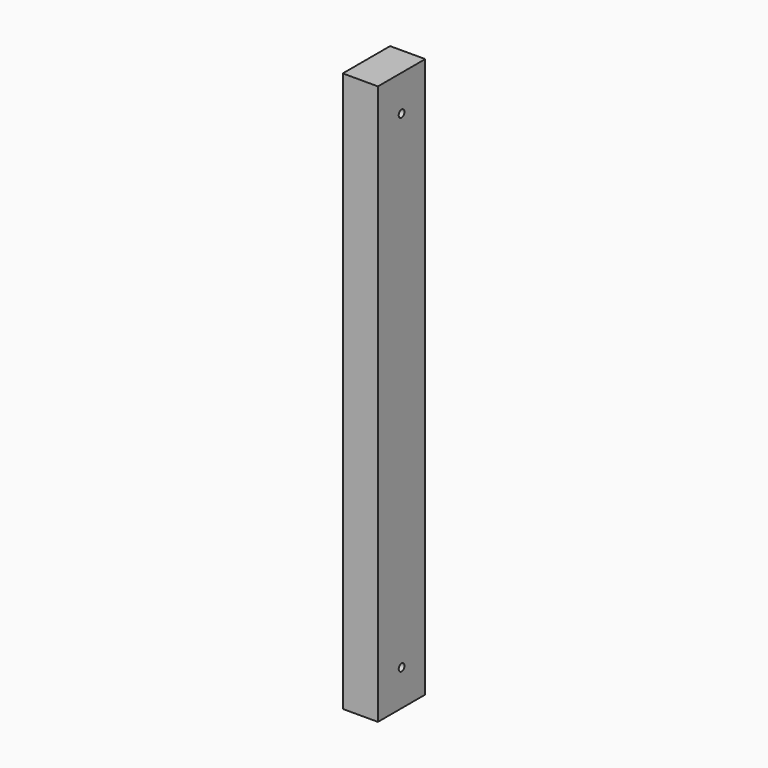
from build123d import *

# Parameters (mm, degrees)
F0_W     = 44
F0_H     = 74
F1_DEPTH = 700
F2_R     = 4.5
F3_DEPTH = 44.001


with BuildPart() as f1:
    # F0 (on Top) → F1 (new body)
    with BuildSketch(Plane.XY):
        Rectangle(F0_W, F0_H)
    extrude(amount=F1_DEPTH)

    # F2 (on face) → F3 (cut, through all)
    with BuildSketch(Plane.YZ.offset(22)):
        with Locations((0, 655)):
            Circle(F2_R)
        with Locations((0, 45)):
            Circle(F2_R)
    extrude(amount=-F3_DEPTH, mode=Mode.SUBTRACT)


solid = f1.part
